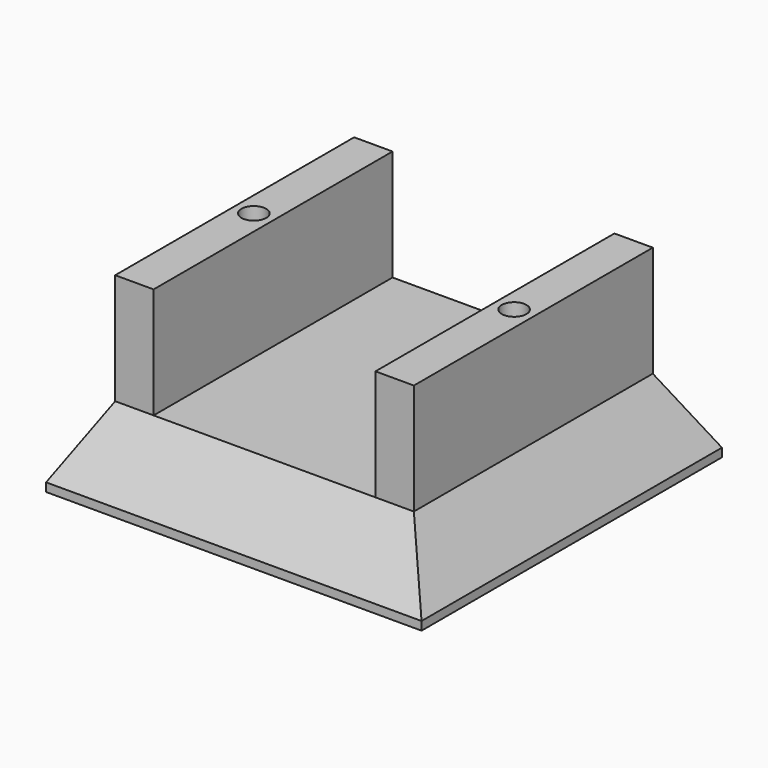
from build123d import *

# Parameters (mm, degrees)
F0_W     = 44
F0_H     = 44
F1_DEPTH = 9
F2_SIZE2 = 8
F2_SIZE  = 4.5
F4_T     = -3
F5_W     = 4.5
F5_H     = 35
F6_DEPTH = 13
F7_R     = 1.45
F8_DEPTH = 13


with BuildPart() as f1:
    # F0 (on Top) → F1 (new body)
    with BuildSketch(Plane.XY):
        with Locations((3.1474529505, 10.1189251319)):
            Rectangle(F0_W, F0_H)
    extrude(amount=F1_DEPTH)

    # F2
    f2_edges = [f1.edges().sort_by_distance(p)[0] for p in [
        (3.147453, -11.881075, 9),
        (-18.852547, 10.118925, 9),
        (3.147453, 32.118925, 9),
        (25.147453, 10.118925, 9),
    ]]
    f2_side = f1.faces().sort_by_distance((3.147453, 10.118925, 9))[0]
    chamfer(f2_edges, length=F2_SIZE, length2=F2_SIZE2, reference=f2_side)

    # F4
    f4_openings = [f1.faces().sort_by_distance(p)[0] for p in [
        (3.147453, 10.118925, 0),
    ]]
    offset(amount=F4_T, openings=f4_openings)

    # F5 (on face) → F6 (join)
    with BuildSketch(Plane.XY.offset(9)):
        with Locations((18.3974529505, 10.1189251319)):
            Rectangle(F5_W, F5_H)
        with Locations((-12.1025470495, 10.1189251319)):
            Rectangle(F5_W, F5_H)
    extrude(amount=F6_DEPTH)

    # F7 (on face) → F8 (cut)
    with BuildSketch(Plane.XY.offset(22)):
        with Locations((-12.1025470495, 10.1189251319)):
            Circle(F7_R)
        with Locations((18.3974529505, 10.1189251319)):
            Circle(F7_R)
    extrude(amount=-F8_DEPTH, mode=Mode.SUBTRACT)


solid = f1.part
